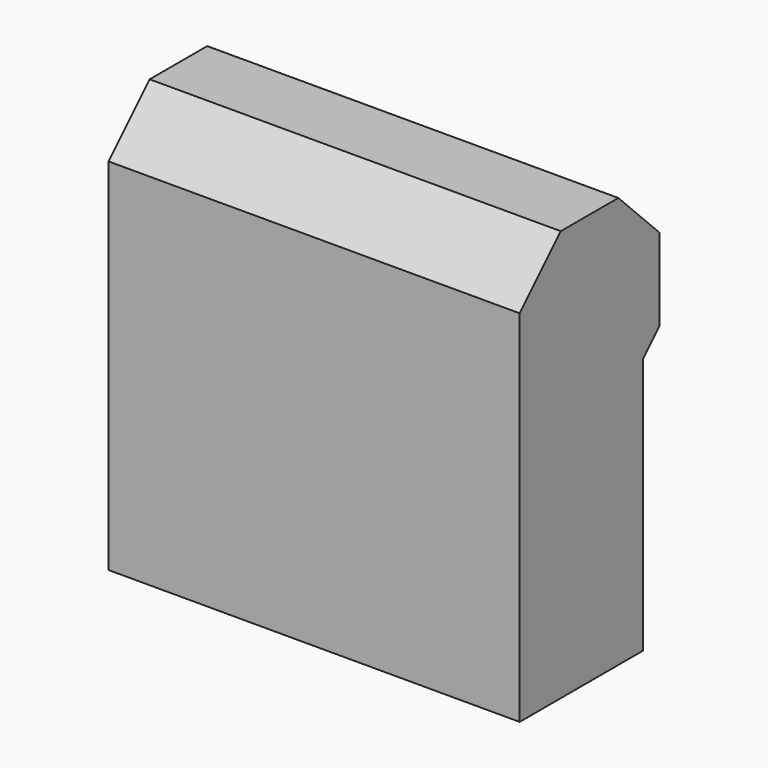
from build123d import *

# Parameters (mm, degrees)
BOX001_W           = 8
BOX001_H           = 3
BOX001_DEPTH       = 5
BOX011_W           = 8
BOX011_H           = 3.4
BOX011_DEPTH       = 3
CHAMFER009003_SIZE = 0.4
CHAMFER009010_SIZE = 1


with BuildPart() as cube001:
    # Box001 → Box001 (new body)
    with BuildSketch(Plane(origin=(-4, 5.2, 0), x_dir=(1, 0, 0), z_dir=(0, 0, 1))):
        with Locations((4, 1.5)):
            Rectangle(BOX001_W, BOX001_H)
    extrude(amount=BOX001_DEPTH)


with BuildPart() as fusion004:
    # Box011 → Box011 (new body)
    with BuildSketch(Plane(origin=(-4, 5.2, 5), x_dir=(1, 0, 0), z_dir=(0, 0, 1))):
        with Locations((4, 1.7)):
            Rectangle(BOX011_W, BOX011_H)
    extrude(amount=BOX011_DEPTH)

    # Chamfer009003
    chamfer009003_edges = [fusion004.edges().sort_by_distance(p)[0] for p in [
        (0, 8.6, 5),
    ]]
    chamfer(chamfer009003_edges, length=CHAMFER009003_SIZE)

    # Chamfer009010
    chamfer009010_edges = [fusion004.edges().sort_by_distance(p)[0] for p in [
        (0, 8.6, 8),
        (0, 5.2, 8),
    ]]
    chamfer(chamfer009010_edges, length=CHAMFER009010_SIZE)

    # Fusion004: union Cube001
    add(cube001.part)


solid = fusion004.part
